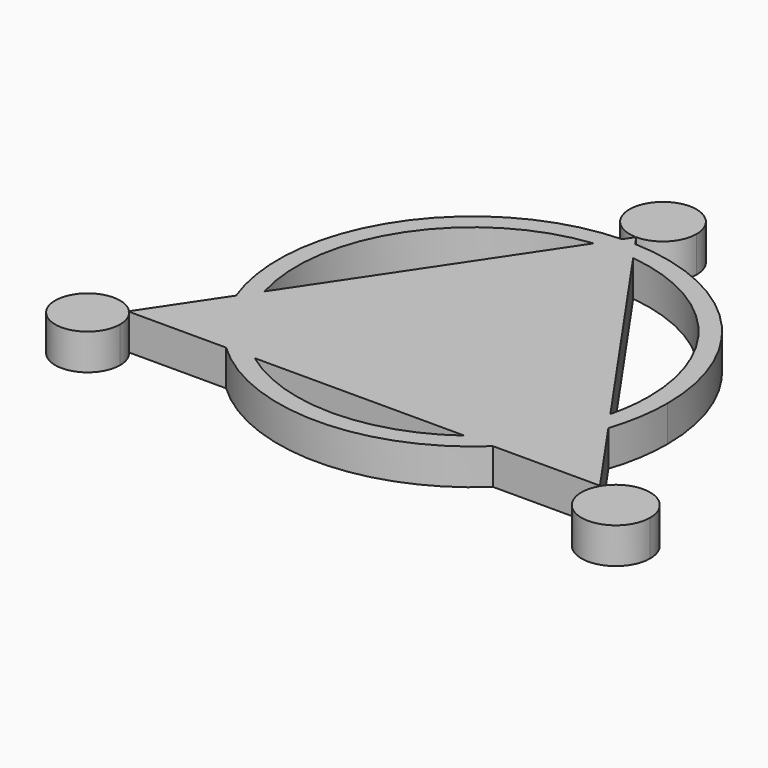
from build123d import *

# Parameters (mm, degrees)
F1_DEPTH = 8.636


with BuildPart() as f1:
    # F0 (on Top) → F1 (new body)
    with BuildSketch(Plane.XY):
        with BuildLine():
            Line((0, 37.7170985419), (0, -38.7967973948))
            Line((0, -38.7967973948), (25.2269786209, -38.7967973948))
            ThreePointArc((25.2269786209, -38.7967973948), (35.3067853532, -28.2043221354), (41.1907481305, -14.8184333745))
            Line((41.1907481305, -14.8184333745), (4.8646492094, 37.437212041))
            ThreePointArc((4.8646492094, 37.437212041), (2.4363470803, 37.6470691064), (0, 37.7170985419))
        make_face()
        with BuildLine():
            ThreePointArc((-40.7548151647, -16.4516300475), (-34.8313925035, -28.9031889268), (-25.2269786209, -38.7967973948))
            Line((-25.2269786209, -38.7967973948), (0, -38.7967973948))
            Line((0, -38.7967973948), (0, 37.7170985419))
            ThreePointArc((0, 37.7170985419), (-2.3381891628, 37.6526024728), (-4.6692675573, 37.4593104073))
            Line((-4.6692675573, 37.4593104073), (-40.7548151647, -16.4516300475))
        make_face()
        with BuildLine():
            ThreePointArc((0, 42.1421492286), (-0.7761074517, 42.135719096), (-1.5520018207, 42.1164304636))
            Line((-1.5520018207, 42.1164304636), (-4.6692675573, 37.4593104073))
            ThreePointArc((-4.6692675573, 37.4593104073), (-2.3381891628, 37.6526024728), (0, 37.7170985419))
            Line((0, 37.7170985419), (0, 42.1421492286))
        make_face()
        with BuildLine():
            ThreePointArc((1.6132780308, 42.1143588987), (0.8067586856, 42.1352011308), (0, 42.1421492286))
            Line((0, 42.1421492286), (0, 37.7170985419))
            ThreePointArc((0, 37.7170985419), (2.4363470803, 37.6470691064), (4.8646492094, 37.437212041))
            Line((4.8646492094, 37.437212041), (1.6132780308, 42.1143588987))
        make_face()
        with BuildLine():
            Line((-0.006738286, 44.4250170288), (-1.5520018207, 42.1164304636))
            ThreePointArc((-1.5520018207, 42.1164304636), (-0.7761074517, 42.135719096), (0, 42.1421492286))
            Line((0, 42.1421492286), (0, 44.4250142138))
            ThreePointArc((0, 44.4250142138), (-0.0033691433, 44.4250149176), (-0.006738286, 44.4250170288))
        make_face()
        with BuildLine():
            Line((0, 44.4250142138), (0, 42.1421492286))
            ThreePointArc((0, 42.1421492286), (0.8067586856, 42.1352011308), (1.6132780308, 42.1143588987))
            Line((1.6132780308, 42.1143588987), (0.0069979213, 44.4250172499))
            ThreePointArc((0.0069979213, 44.4250172499), (0.003498961, 44.4250149728), (0, 44.4250142138))
        make_face()
        with BuildLine():
            Line((41.1907481305, -14.8184333745), (44.442119309, -19.4955802322))
            ThreePointArc((44.442119309, -19.4955802322), (46.237184027, -12.193650666), (46.8407233059, -4.6985740773))
            ThreePointArc((46.8407233059, -4.6985740773), (33.6869445756, 27.8474414235), (1.6132780308, 42.1143588987))
            Line((1.6132780308, 42.1143588987), (4.8646492094, 37.437212041))
            ThreePointArc((4.8646492094, 37.437212041), (31.6656489908, 23.5215598298), (42.4156726192, -4.6985740773))
            ThreePointArc((42.4156726192, -4.6985740773), (42.108327985, -9.7954356656), (41.1907481305, -14.8184333745))
        make_face()
        with BuildLine():
            Line((25.2269786209, -38.7967973948), (32.114864571, -38.7967973948))
            ThreePointArc((32.114864571, -38.7967973948), (39.4762864412, -29.9111933112), (44.442119309, -19.4955802322))
            Line((44.442119309, -19.4955802322), (41.1907481305, -14.8184333745))
            ThreePointArc((41.1907481305, -14.8184333745), (35.3067853532, -28.2043221354), (25.2269786209, -38.7967973948))
        make_face()
        with BuildLine():
            ThreePointArc((44.442119309, -19.4955802322), (39.4762864412, -29.9111933112), (32.114864571, -38.7967973948))
            Line((32.114864571, -38.7967973948), (46.3145114481, -38.7967973948))
            Line((46.3145114481, -38.7967973948), (57.8595772386, -38.7967973948))
            Line((57.8595772386, -38.7967973948), (44.442119309, -19.4955802322))
        make_face()
        with BuildLine():
            Line((-25.2269786209, -38.7967973948), (-32.114864571, -38.7967973948))
            ThreePointArc((-32.114864571, -38.7967973948), (0, -51.5392973832), (32.114864571, -38.7967973948))
            Line((32.114864571, -38.7967973948), (25.2269786209, -38.7967973948))
            ThreePointArc((25.2269786209, -38.7967973948), (0, -47.1142466966), (-25.2269786209, -38.7967973948))
        make_face()
        with BuildLine():
            ThreePointArc((-55.596394433, -38.6245926113), (-55.5191487672, -38.7101293299), (-55.443174629, -38.7967973948))
            Line((-55.443174629, -38.7967973948), (-32.114864571, -38.7967973948))
            ThreePointArc((-32.114864571, -38.7967973948), (-39.0092389671, -30.6279519146), (-43.8720809012, -21.1087501038))
            Line((-43.8720809012, -21.1087501038), (-55.596394433, -38.6245926113))
        make_face()
        with BuildLine():
            ThreePointArc((-43.8720809012, -21.1087501038), (-39.0092389671, -30.6279519146), (-32.114864571, -38.7967973948))
            Line((-32.114864571, -38.7967973948), (-25.2269786209, -38.7967973948))
            ThreePointArc((-25.2269786209, -38.7967973948), (-34.8313925035, -28.9031889268), (-40.7548151647, -16.4516300475))
            Line((-40.7548151647, -16.4516300475), (-43.8720809012, -21.1087501038))
        make_face()
        with BuildLine():
            ThreePointArc((-1.5520018207, 42.1164304636), (-38.9254760694, 21.3563807796), (-43.8720809012, -21.1087501038))
            Line((-43.8720809012, -21.1087501038), (-40.7548151647, -16.4516300475))
            ThreePointArc((-40.7548151647, -16.4516300475), (-35.2481800659, 18.8949649912), (-4.6692675573, 37.4593104073))
            Line((-4.6692675573, 37.4593104073), (-1.5520018207, 42.1164304636))
        make_face()
    extrude(amount=F1_DEPTH)


with BuildPart() as f1b:
    # F0 (on Top) → F1, piece 2 (new body)
    with BuildSketch(Plane.XY):
        with BuildLine():
            ThreePointArc((8.0647656758, 52.4897798896), (-5.7002676563, 58.1948122341), (-0.006738286, 44.4250170288))
            Line((-0.006738286, 44.4250170288), (0, 44.4350838661))
            Line((0, 44.4350838661), (0.0069979213, 44.4250172499))
            ThreePointArc((0.0069979213, 44.4250172499), (5.7051241003, 46.7896040673), (8.0647656758, 52.4897798896))
        make_face()
    extrude(amount=F1_DEPTH)


with BuildPart() as f1c:
    # F0 (on Top) → F1, piece 3 (new body)
    with BuildSketch(Plane.XY):
        with BuildLine():
            ThreePointArc((73.3798710813, -43.0926345289), (67.294847246, -35.1156895086), (57.9932896094, -38.8760342357))
            ThreePointArc((57.9932896094, -38.8760342357), (62.9227794449, -51.0695795491), (73.3798710813, -43.0926345289))
        make_face()
    extrude(amount=F1_DEPTH)


with BuildPart() as f1d:
    # F0 (on Top) → F1, piece 4 (new body)
    with BuildSketch(Plane.XY):
        with BuildLine():
            Line((-55.443174629, -38.7967973948), (-55.7116605341, -38.7967973948))
            Line((-55.7116605341, -38.7967973948), (-55.596394433, -38.6245926113))
            ThreePointArc((-55.596394433, -38.6245926113), (-68.6238126047, -46.7272897755), (-53.5452502536, -43.8981056213))
            ThreePointArc((-53.5452502536, -43.8981056213), (-54.0351039177, -41.1766417433), (-55.443174629, -38.7967973948))
        make_face()
    extrude(amount=F1_DEPTH)


solid = Compound([f1.part, f1b.part, f1c.part, f1d.part])
